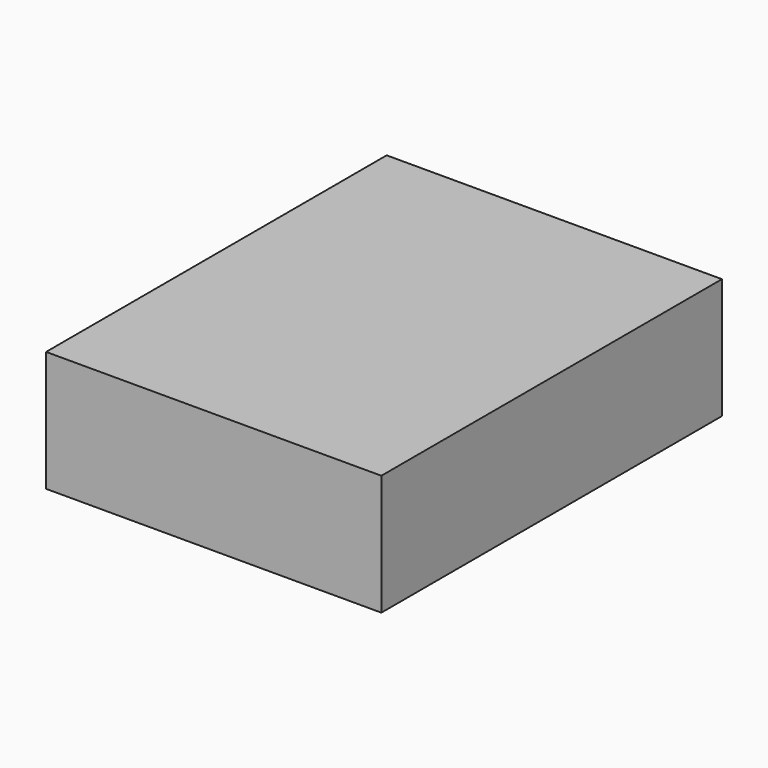
from build123d import *

# Parameters (mm, degrees)
SKETCH_W  = 58.39591
SKETCH_H  = 74.152596
PAD_DEPTH = 21


with BuildPart() as part:
    # Sketch → Pad (new body)
    with BuildSketch(Plane.XY):
        with Locations((0, 17.452287)):
            Rectangle(SKETCH_W, SKETCH_H)
    extrude(amount=PAD_DEPTH)


solid = part.part
